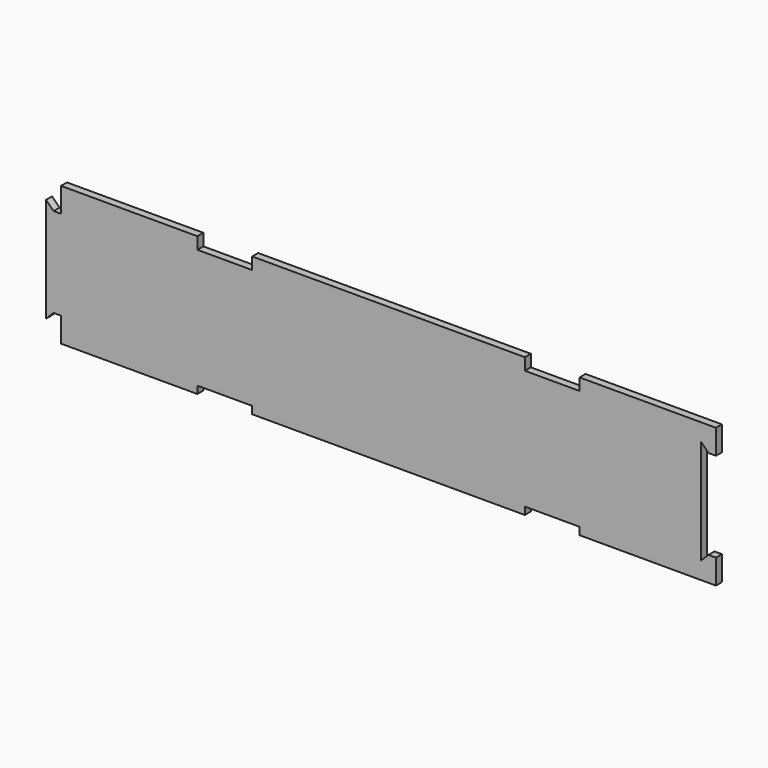
from build123d import *

# Parameters (mm, degrees)
F0_W     = 278.2466876
F0_H     = 50.8
F1_DEPTH = 3.175
F2_W     = 57.9247
F2_H     = 5.08
F2_W_2   = 115.8494
F2_H_2   = 3.1496
F3_DEPTH = 3.175
F5_DEPTH = 3.175
F6_DEPTH = 3.176


with BuildPart() as f1:
    # F0 (on Front) → F1 (new body)
    with BuildSketch(Plane.XZ):
        with Locations((139.1233438, 25.4)):
            Rectangle(F0_W, F0_H)
    extrude(amount=F1_DEPTH)

    # F2 (on face) → F3 (join)
    with BuildSketch(Plane.XZ.offset(3.175)):
        with Locations((28.96235, 53.34)):
            Rectangle(F2_W, F2_H)
        with Locations((139.1233438, 53.34)):
            Rectangle(F2_W_2, F2_H)
        with Locations((249.2843376, 53.34)):
            Rectangle(F2_W, F2_H)
        with Locations((28.96235, -1.5748)):
            Rectangle(F2_W, F2_H_2)
        with Locations((139.1233438, -1.5748)):
            Rectangle(F2_W_2, F2_H_2)
        with Locations((249.2843376, -1.5748)):
            Rectangle(F2_W, F2_H_2)
    extrude(amount=-F3_DEPTH)

    # F4 (on face) → F5 (join)
    with BuildSketch(Plane.XZ.offset(3.175)):
        Polygon((0, 7.3152), (0, 45.4152), (-3.175, 45.4152), (-6.35, 48.5902), (-6.35, 4.1402), (-3.175, 7.3152), align=None)
    extrude(amount=-F5_DEPTH)

    # F4 (on face) → F6 (cut, through all)
    with BuildSketch(Plane.XZ.offset(3.175)):
        Polygon((278.2466876, 7.3152), (278.2466876, 45.4152), (275.0716876, 45.4152), (271.8966876, 48.5902), (271.8966876, 4.1402), (275.0716876, 7.3152), align=None)
    extrude(amount=-F6_DEPTH, mode=Mode.SUBTRACT)


solid = f1.part
